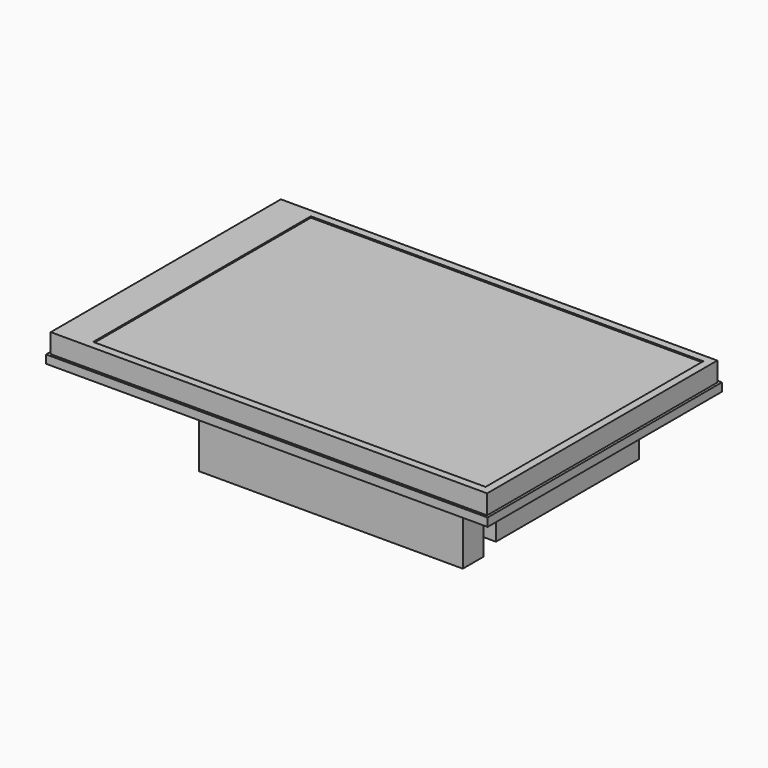
from build123d import *

# Parameters (mm, degrees)
F0_W     = 85.35
F0_H     = 56.6
F0_W_2   = 11.11
F0_H_2   = 32.25
F1_DEPTH = 1.6
F2_W     = 84.35
F2_H     = 55.6
F3_DEPTH = 3.75
F4_W     = 75.85
F4_H     = 52.6
F5_DEPTH = 0.25
F6_W     = 7.6
F6_H     = 34.6
F6_W_2   = 51
F6_H_2   = 5
F7_DEPTH = 10


with BuildPart() as f1:
    # F0 (on Top) → F1 (new body)
    with BuildSketch(Plane.XY):
        Rectangle(F0_W, F0_H)
        with Locations((-21.01, 0)):
            Rectangle(F0_W_2, F0_H_2, mode=Mode.SUBTRACT)
    extrude(amount=F1_DEPTH)

    # F2 (on face) → F3 (join)
    with BuildSketch(Plane.XY.offset(1.6)):
        Rectangle(F2_W, F2_H)
    extrude(amount=F3_DEPTH)

    # F4 (on face) → F5 (cut)
    with BuildSketch(Plane.XY.offset(5.35)):
        with Locations((2.75, 0)):
            Rectangle(F4_W, F4_H)
    extrude(amount=-F5_DEPTH, mode=Mode.SUBTRACT)

    # F6 (on face) → F7 (join)
    with BuildSketch(Plane(origin=(0, 0, 0), x_dir=(1, 0, 0), z_dir=(0, 0, -1))):
        with Locations((30.875, -1)):
            Rectangle(F6_W, F6_H)
        with Locations((10.775, 23.8)):
            Rectangle(F6_W_2, F6_H_2)
    extrude(amount=F7_DEPTH)


solid = f1.part
